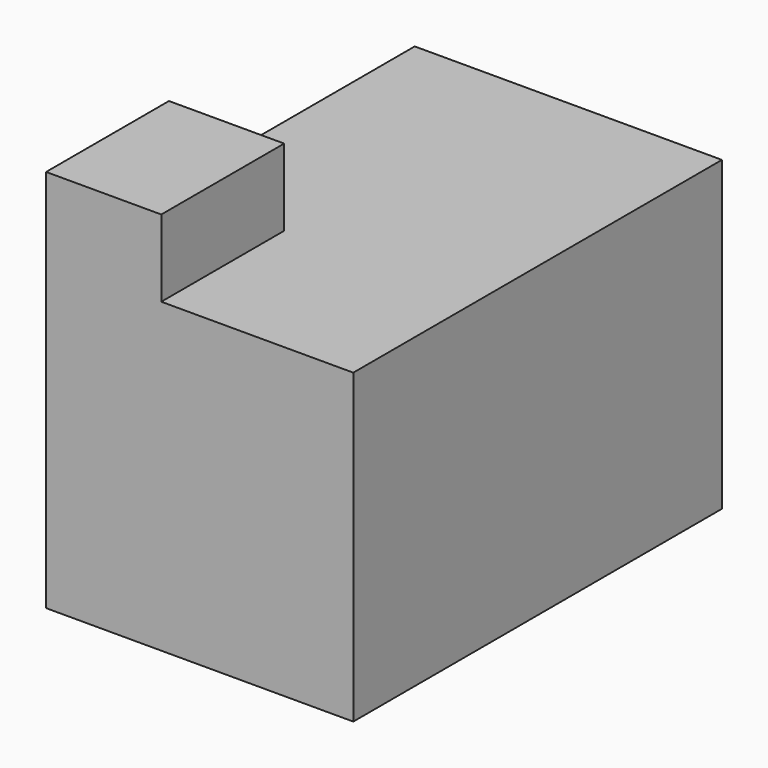
from build123d import *

# Parameters (mm, degrees)
F0_W     = 101.6
F0_H     = 152.4
F1_DEPTH = 50.8
F2_W     = 38.1
F2_H     = 50.8
F3_DEPTH = 25.4


with BuildPart() as f1:
    # F0 (on Top) → F1 (new body, symmetric)
    with BuildSketch(Plane.XY):
        Rectangle(F0_W, F0_H)
    extrude(amount=F1_DEPTH, both=True)

    # F2 (on face) → F3 (join)
    with BuildSketch(Plane.XY.offset(50.8)):
        with Locations((-31.75, -50.8)):
            Rectangle(F2_W, F2_H)
    extrude(amount=F3_DEPTH)


solid = f1.part
